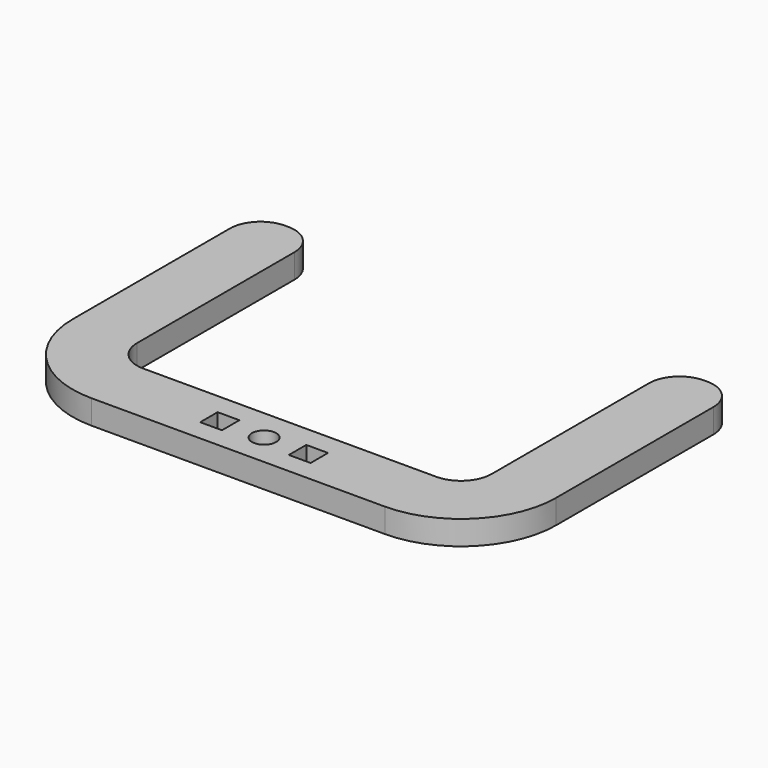
from build123d import *

# Parameters (mm, degrees)
SKETCH_R    = 1.5
SKETCH_W    = 2.700009
SKETCH_H    = 2.699989
PAD_DEPTH   = 3
FILLET_R    = 3.8
FILLET001_R = 11.8


with BuildPart() as part:
    # Sketch (on Face9 of Binder004) → Pad (new body)
    with BuildSketch(Plane(origin=(0, 1.8e-05, 2.818036), x_dir=(1, 0, 0), z_dir=(0, -6e-06, -1))):
        Polygon((-30, 24.600493), (-30, -15.399507), (-22, -15.399507), (-22, 16.600493), (22, 16.600493), (22, -15.399507), (30, -15.399507), (30, 24.600493), align=None)
        with Locations((0, 20.600493)):
            Circle(SKETCH_R, mode=Mode.SUBTRACT)
        with Locations((-5.49402, 20.600472)):
            Rectangle(SKETCH_W, SKETCH_H, mode=Mode.SUBTRACT)
        with Locations((5.50598, 20.600513)):
            Rectangle(SKETCH_W, SKETCH_H, mode=Mode.SUBTRACT)
    extrude(amount=PAD_DEPTH)

    # Fillet
    fillet_edges = [part.edges().sort_by_distance(p)[0] for p in [
        (-30, 15.399516, 1.317937),
        (-22, 15.399516, 1.317937),
        (22, 15.399516, 1.317937),
        (30, 15.399516, 1.317937),
        (-22, -16.600484, 1.318144),
        (22, -16.600484, 1.318144),
    ]]
    fillet(fillet_edges, radius=FILLET_R)

    # Fillet001
    fillet001_edges = [part.edges().sort_by_distance(p)[0] for p in [
        (30, -24.600484, 1.318195),
        (-30, -24.600484, 1.318195),
    ]]
    fillet(fillet001_edges, radius=FILLET001_R)


with BuildPart() as part_1:
    # Body placement: moved
    add(part.part.moved(Location((12.1, 0, -69.4))))


solid = part_1.part
